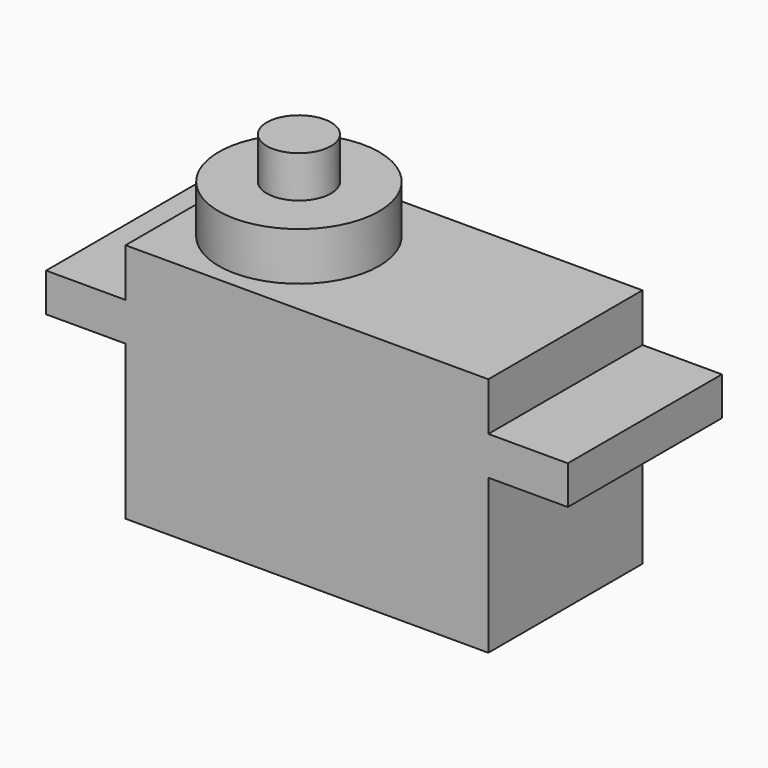
from build123d import *

# Parameters (mm, degrees)
F0_W          = 32.5
F0_H          = 12
F1_DEPTH      = 2.4
F2_W          = 22.6
F2_H          = 12
F3_DEPTH      = 3
F3_DEPTH_BACK = 12
F4_R          = 5
F5_DEPTH      = 3
F6_R          = 2
F7_DEPTH      = 2.6


with BuildPart() as f1:
    # F0 (on Top) → F1 (new body)
    with BuildSketch(Plane.XY):
        with Locations((5.3, 0)):
            Rectangle(F0_W, F0_H)
    extrude(amount=F1_DEPTH)

    # F2 (on face) → F3 (join, two sides)
    with BuildSketch(Plane.XY.offset(2.4)) as f3_sk:
        with Locations((5.3, 0)):
            Rectangle(F2_W, F2_H)
    extrude(amount=F3_DEPTH)
    extrude(f3_sk.sketch, amount=-F3_DEPTH_BACK)

    # F4 (on face) → F5 (join)
    with BuildSketch(Plane.XY.offset(5.4)):
        Circle(F4_R)
    extrude(amount=F5_DEPTH)

    # F6 (on face) → F7 (join)
    with BuildSketch(Plane.XY.offset(8.4)):
        Circle(F6_R)
    extrude(amount=F7_DEPTH)


solid = f1.part
